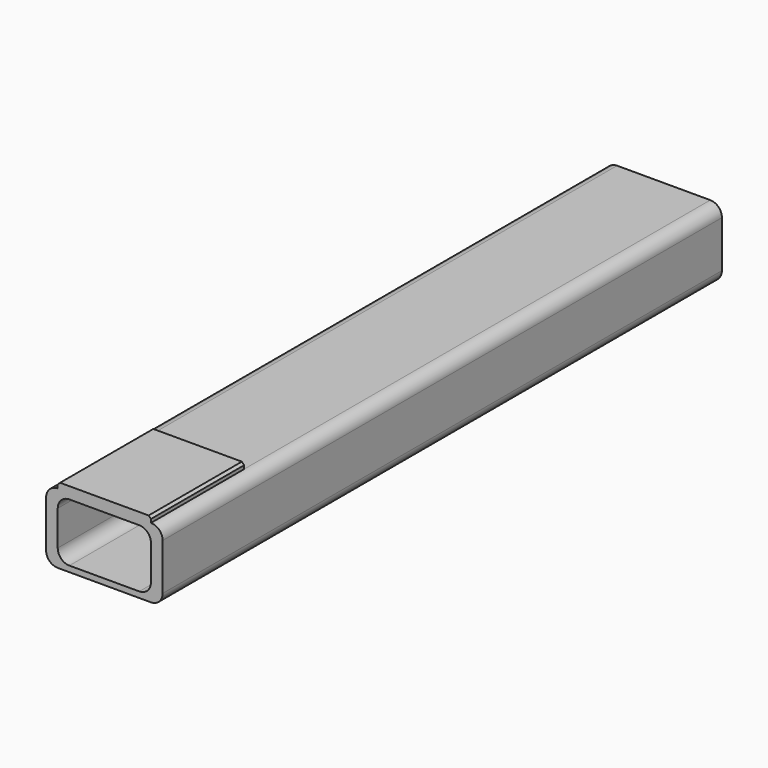
from build123d import *

# Parameters (mm, degrees)
F1_DEPTH = 762
F2_W     = 101.6
F2_H     = 127
F3_DEPTH = 6.35
F4_SIZE  = 2.54


with BuildPart() as f1:
    # F0 (on Front) → F1 (new body)
    with BuildSketch(Plane.XZ):
        with BuildLine():
            ThreePointArc((63.5, 25.4), (59.780256, 34.380256), (50.8, 38.1))
            Line((50.8, 38.1), (-50.8, 38.1))
            ThreePointArc((-50.8, 38.1), (-59.780256, 34.380256), (-63.5, 25.4))
            Line((-63.5, 25.4), (-63.5, -25.4))
            ThreePointArc((-63.5, -25.4), (-59.780256, -34.380256), (-50.8, -38.1))
            Line((-50.8, -38.1), (50.8, -38.1))
            ThreePointArc((50.8, -38.1), (59.780256, -34.380256), (63.5, -25.4))
            Line((63.5, -25.4), (63.5, 25.4))
        make_face()
        with BuildLine():
            Line((-38.1, 31.75), (38.1, 31.75))
            ThreePointArc((38.1, 31.75), (47.080256, 28.030256), (50.8, 19.05))
            Line((50.8, 19.05), (50.8, -19.05))
            ThreePointArc((50.8, -19.05), (47.080256, -28.030256), (38.1, -31.75))
            Line((38.1, -31.75), (-38.1, -31.75))
            ThreePointArc((-38.1, -31.75), (-47.080256, -28.030256), (-50.8, -19.05))
            Line((-50.8, -19.05), (-50.8, 19.05))
            ThreePointArc((-50.8, 19.05), (-47.080256, 28.030256), (-38.1, 31.75))
        make_face(mode=Mode.SUBTRACT)
    extrude(amount=F1_DEPTH)

    # F2 (on face) → F3 (join)
    with BuildSketch(Plane.XY.offset(38.1)):
        with Locations((0, -698.5)):
            Rectangle(F2_W, F2_H)
    extrude(amount=F3_DEPTH)

    # F4
    f4_edges = [f1.edges().sort_by_distance(p)[0] for p in [
        (50.8, -698.5, 44.45),
        (-50.8, -698.5, 44.45),
    ]]
    chamfer(f4_edges, length=F4_SIZE)


solid = f1.part
